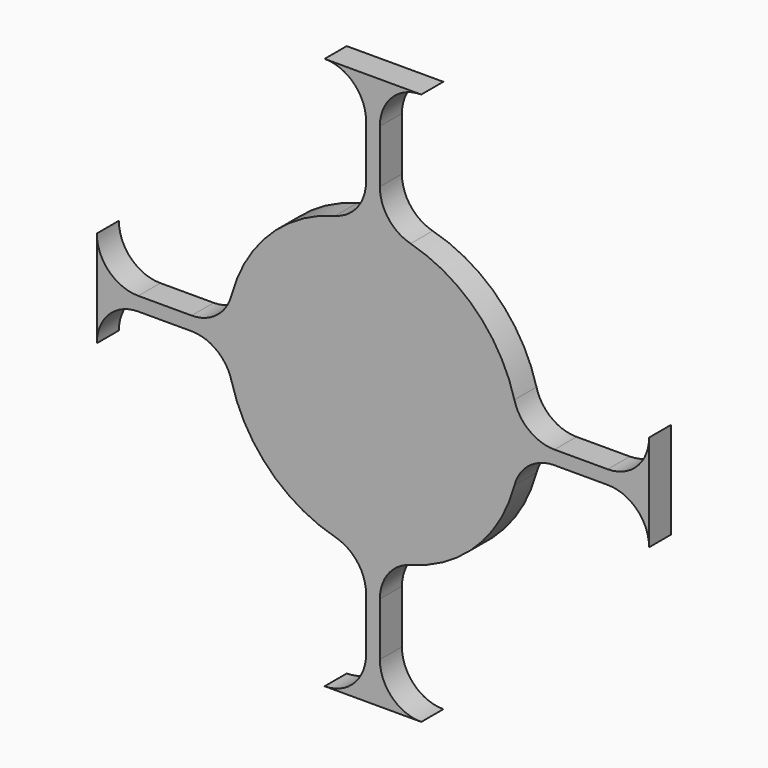
from build123d import *

# Parameters (mm, degrees)
F1_DEPTH = 2


with BuildPart() as f1:
    # F0 (on Front) → F1 (new body)
    with BuildSketch(Plane.XZ):
        with BuildLine():
            ThreePointArc((-13.141918, -0.5), (-11.313828, -1.121326), (-10.242965, -2.727941))
            ThreePointArc((-10.242965, -2.727941), (-7.495332, -7.495332), (-2.727941, -10.242965))
            ThreePointArc((-2.727941, -10.242965), (-1.121326, -11.313828), (-0.5, -13.141918))
            Line((-0.5, -13.141918), (-0.5, -17))
            ThreePointArc((-0.5, -17), (-1.37868, -19.12132), (-3.5, -20))
            Line((-3.5, -20), (3.5, -20))
            ThreePointArc((3.5, -20), (1.37868, -19.12132), (0.5, -17))
            Line((0.5, -17), (0.5, -13.141918))
            ThreePointArc((0.5, -13.141918), (1.121326, -11.313828), (2.727941, -10.242965))
            ThreePointArc((2.727941, -10.242965), (7.495332, -7.495332), (10.242965, -2.727941))
            ThreePointArc((10.242965, -2.727941), (11.313828, -1.121326), (13.141918, -0.5))
            Line((13.141918, -0.5), (17, -0.5))
            ThreePointArc((17, -0.5), (19.12132, -1.37868), (20, -3.5))
            Line((20, -3.5), (20, 0))
            Line((20, 0), (0, 0))
            Line((0, 0), (0, 20))
            Line((0, 20), (-3.5, 20))
            ThreePointArc((-3.5, 20), (-1.37868, 19.12132), (-0.5, 17))
            Line((-0.5, 17), (-0.5, 13.141918))
            ThreePointArc((-0.5, 13.141918), (-1.121326, 11.313828), (-2.727941, 10.242965))
            ThreePointArc((-2.727941, 10.242965), (-7.495332, 7.495332), (-10.242965, 2.727941))
            ThreePointArc((-10.242965, 2.727941), (-11.313828, 1.121326), (-13.141918, 0.5))
            Line((-13.141918, 0.5), (-17, 0.5))
            ThreePointArc((-17, 0.5), (-19.12132, 1.37868), (-20, 3.5))
            Line((-20, 3.5), (-20, -3.5))
            ThreePointArc((-20, -3.5), (-19.12132, -1.37868), (-17, -0.5))
            Line((-17, -0.5), (-13.141918, -0.5))
        make_face()
        with BuildLine():
            Line((3.5, 20), (0, 20))
            Line((0, 20), (0, 0))
            Line((0, 0), (20, 0))
            Line((20, 0), (20, 3.5))
            ThreePointArc((20, 3.5), (19.12132, 1.37868), (17, 0.5))
            Line((17, 0.5), (13.141918, 0.5))
            ThreePointArc((13.141918, 0.5), (11.313828, 1.121326), (10.242965, 2.727941))
            ThreePointArc((10.242965, 2.727941), (7.495332, 7.495332), (2.727941, 10.242965))
            ThreePointArc((2.727941, 10.242965), (1.121326, 11.313828), (0.5, 13.141918))
            Line((0.5, 13.141918), (0.5, 17))
            ThreePointArc((0.5, 17), (1.37868, 19.12132), (3.5, 20))
        make_face()
    extrude(amount=F1_DEPTH)


solid = f1.part
